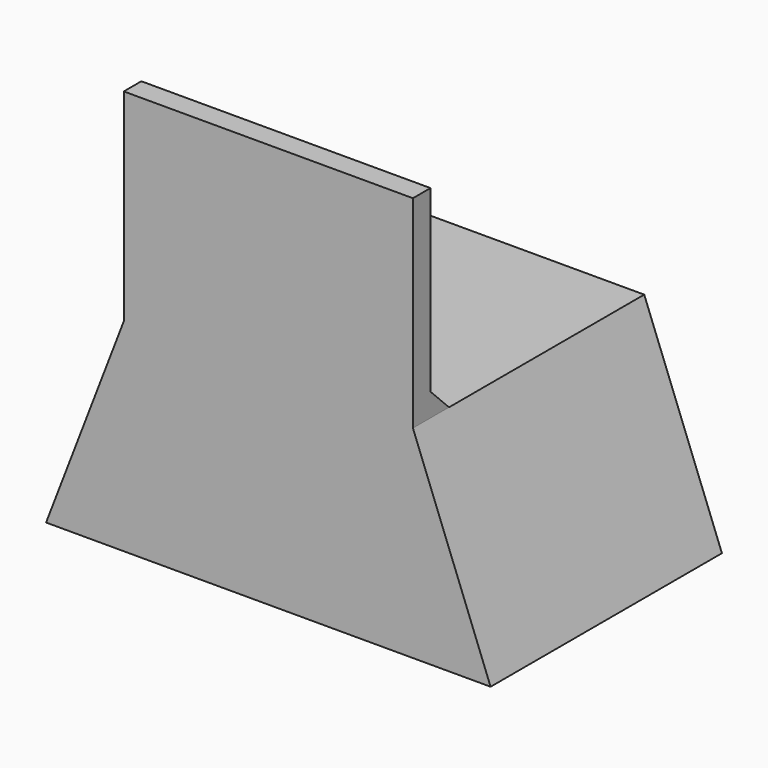
from build123d import *

# Parameters (mm, degrees)
F0_W     = 63.5
F0_H     = 44.45
F1_DEPTH = 63.5
F2_START = 58.674
F2_DEPTH = 4.826
F3_SIZE  = 5.08


with BuildPart() as f1:
    # F0 (on Front) → F1 (new body)
    with BuildSketch(Plane.XZ):
        Polygon((-48.8091893494, -44.45), (-31.75, -44.45), (-31.75, 0), align=None)
        Polygon((-48.8091893494, -44.45), (-31.75, -44.45), (-31.75, 0), align=None)
        with Locations((0, -22.225)):
            Rectangle(F0_W, F0_H)
        Polygon((31.75, 0), (31.75, -44.45), (48.8091893494, -44.45), align=None)
        Polygon((31.75, 0), (31.75, -44.45), (48.8091893494, -44.45), align=None)
    extrude(amount=F1_DEPTH)

    # F0 (on Front) → F2 (join)
    with BuildSketch(Plane.XZ.offset(F2_START)):
        with Locations((0, 22.225)):
            Rectangle(F0_W, F0_H)
    extrude(amount=F2_DEPTH)

    # F3
    f3_edges = [f1.edges().sort_by_distance(p)[0] for p in [
        (0, -58.674, 0),
    ]]
    chamfer(f3_edges, length=F3_SIZE)


solid = f1.part
